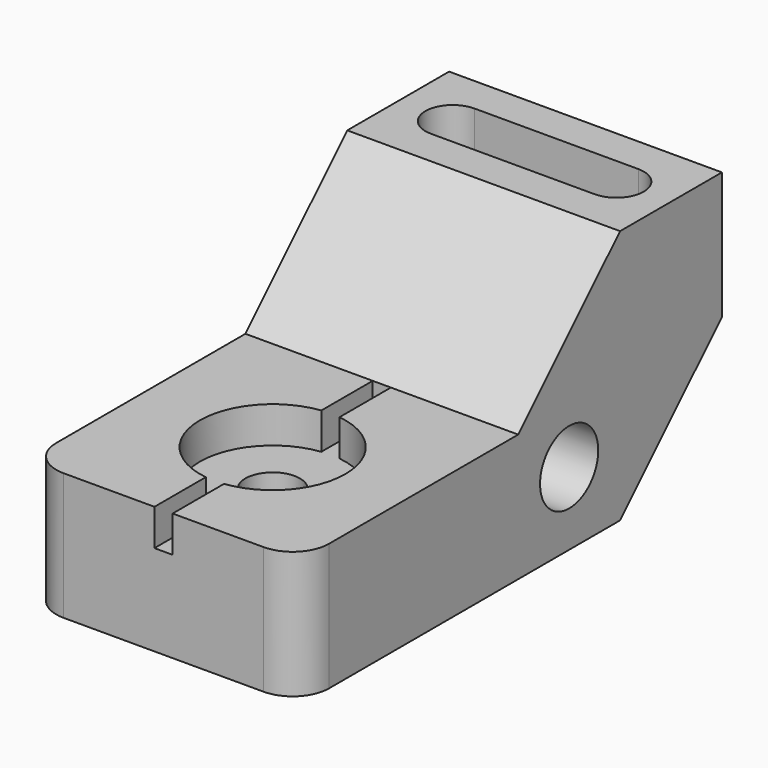
from build123d import *

# Parameters (mm, degrees)
F1_DEPTH       = 38.1
F3_DEPTH       = 27.94
F4_R           = 10.16
F5_R           = 10.16
F6_DEPTH       = 76.201
F8_D           = 15.24
F8_CBORE_D     = 40.64
F8_CBORE_DEPTH = 10.16
F9_DEPTH       = 10.16


with BuildPart() as f1:
    # F0 (on Right) → F1 (new body, symmetric)
    with BuildSketch(Plane.YZ):
        Polygon((0, 35.56), (0, 0), (111.76, 0), (147.32, 35.56), (147.32, 71.12), (111.76, 71.12), (76.2, 35.56), align=None)
    extrude(amount=F1_DEPTH, both=True)

    # F2 (on face) → F3 (cut)
    with BuildSketch(Plane.XY.offset(71.12)):
        with BuildLine():
            Line((22.86, 137.16), (-22.86, 137.16))
            ThreePointArc((-22.86, 137.16), (-30.48, 129.54), (-22.86, 121.92))
            Line((-22.86, 121.92), (22.86, 121.92))
            ThreePointArc((22.86, 121.92), (30.48, 129.54), (22.86, 137.16))
        make_face()
    extrude(amount=-F3_DEPTH, mode=Mode.SUBTRACT)

    # F4
    f4_edges = [f1.edges().sort_by_distance(p)[0] for p in [
        (38.1, 0, 17.78),
        (-38.1, 0, 17.78),
    ]]
    fillet(f4_edges, radius=F4_R)

    # F5 (on face) → F6 (cut, through all)
    with BuildSketch(Plane.YZ.offset(38.1)):
        with Locations((93.98, 20.32)):
            Circle(F5_R)
    extrude(amount=-F6_DEPTH, mode=Mode.SUBTRACT)

    # F8 (through all)
    with Locations(Plane.XY.offset(35.56)):
        with Locations((0, 38.1)):
            CounterBoreHole(F8_D / 2, F8_CBORE_D / 2, F8_CBORE_DEPTH)

    # F7 (on face) → F9 (cut)
    with BuildSketch(Plane.XY.offset(35.56)):
        with BuildLine():
            Line((2.54, 0), (2.54, 30.915795))
            ThreePointArc((2.54, 30.915795), (0, 30.48), (-2.54, 30.915795))
            Line((-2.54, 30.915795), (-2.54, 0))
            Line((-2.54, 0), (2.54, 0))
        make_face()
        with BuildLine():
            ThreePointArc((-2.54, 45.284205), (0, 45.72), (2.54, 45.284205))
            Line((2.54, 45.284205), (2.54, 76.2))
            Line((2.54, 76.2), (-2.54, 76.2))
            Line((-2.54, 76.2), (-2.54, 45.284205))
        make_face()
    extrude(amount=-F9_DEPTH, mode=Mode.SUBTRACT)


solid = f1.part
